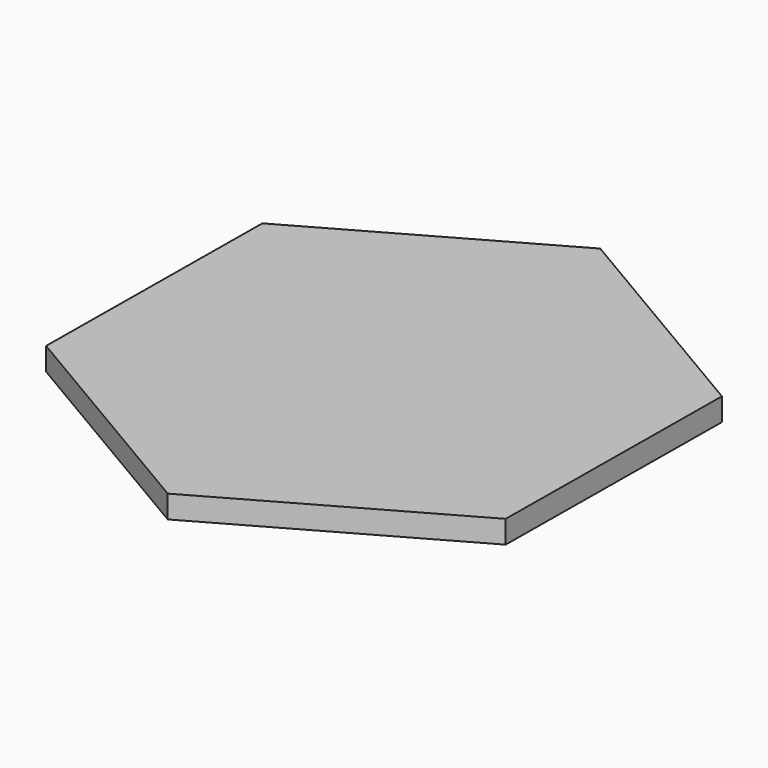
from build123d import *

# Parameters (mm, degrees)
PAD013_DEPTH = 10


with BuildPart() as part:
    # Sketch013 → Pad013 (new body)
    with BuildSketch(Plane.XY):
        Polygon((40.648041, 7.960721), (-60.654729, 67.690055), (-163.033235, 9.82395), (-164.108971, -107.771489), (-62.806201, -167.500823), (39.572305, -109.634718), align=None)
    extrude(amount=-PAD013_DEPTH)


with BuildPart() as part_1:
    # Body013 placement: moved
    add(part.part.moved(Location((164.108971, 167.500823, 0))))


solid = part_1.part
